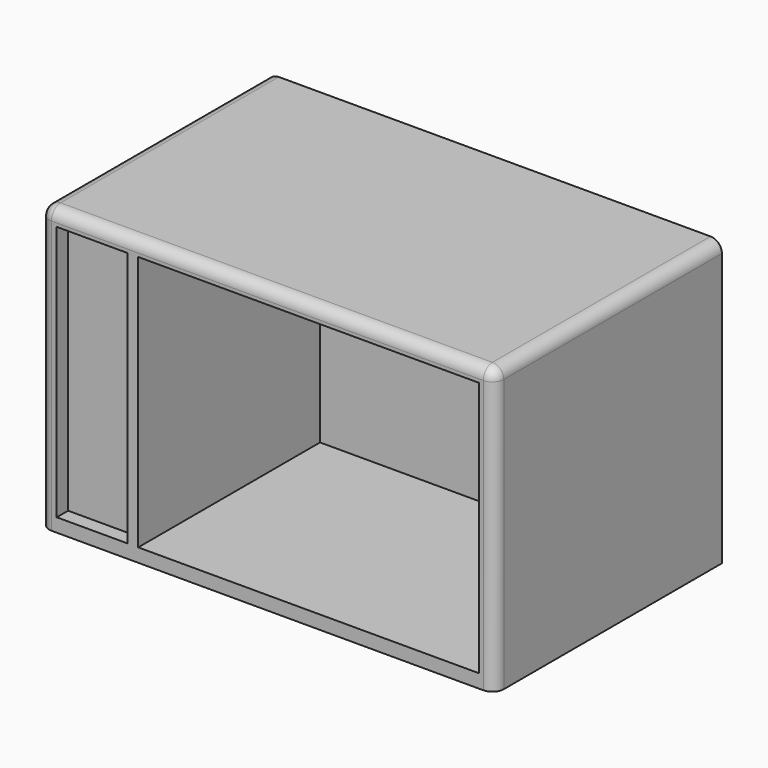
from build123d import *

# Parameters (mm, degrees)
F0_W     = 203.2
F0_H     = 127
F1_DEPTH = 127
F2_R     = 5.08
F3_W     = 152.4
F3_H     = 114.3
F4_DEPTH = 101.6
F3_W_2   = 31.75
F5_DEPTH = 6.35


with BuildPart() as f1:
    # F0 (on Top) → F1 (new body)
    with BuildSketch(Plane.XY):
        with Locations((38.395604, 24.034617)):
            Rectangle(F0_W, F0_H)
    extrude(amount=F1_DEPTH)

    # F2
    f2_edges = [f1.edges().sort_by_distance(p)[0] for p in [
        (38.395604, -39.465383, 127),
        (-63.204396, 24.034617, 127),
        (139.995604, 24.034617, 127),
        (139.995604, -39.465383, 63.5),
        (-63.204396, -39.465383, 63.5),
    ]]
    fillet(f2_edges, radius=F2_R)

    # F3 (on face) → F4 (cut)
    with BuildSketch(Plane.XZ.offset(39.465383)):
        with Locations((56.842002, 63.221574)):
            Rectangle(F3_W, F3_H)
    extrude(amount=-F4_DEPTH, mode=Mode.SUBTRACT)

    # F3 (on face) → F5 (cut)
    with BuildSketch(Plane.XZ.offset(39.465383)):
        with Locations((56.842002, 63.221574)):
            Rectangle(F3_W, F3_H)
        with Locations((-39.926485, 63.221574)):
            Rectangle(F3_W_2, F3_H)
    extrude(amount=-F5_DEPTH, mode=Mode.SUBTRACT)


solid = f1.part
